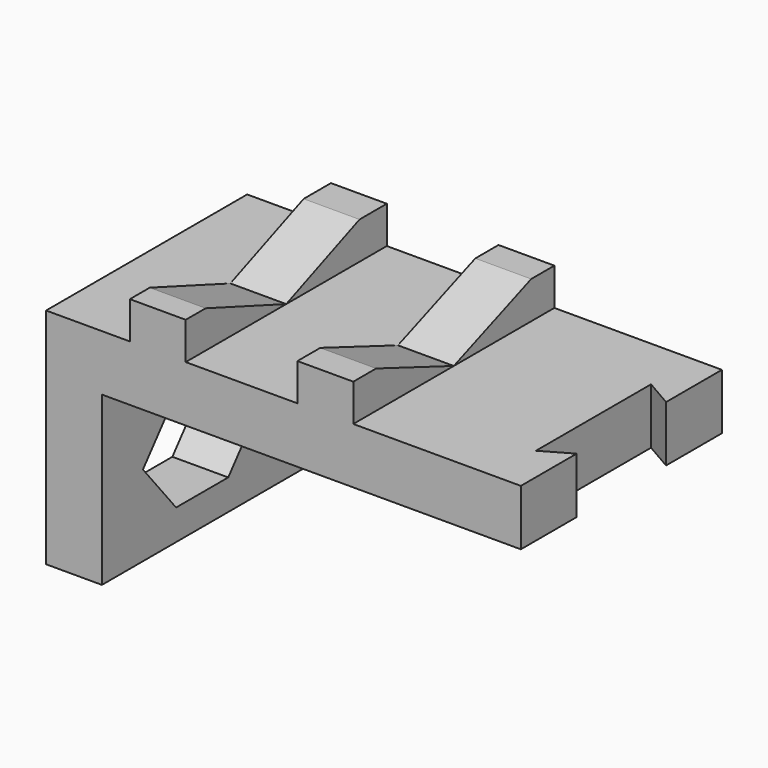
from build123d import *

# Parameters (mm, degrees)
F0_W      = 54
F0_H      = 56
F1_DEPTH  = 102
F2_W      = 90
F2_H      = 36
F3_DEPTH  = 59.1
F6_DEPTH  = 25
F7_W      = 18
F7_H      = 54
F8_DEPTH  = 8
F9_W      = 24
F9_H      = 54
F10_DEPTH = 8
F11_W     = 36
F11_H     = 54
F12_DEPTH = 8
F14_DEPTH = 12
F16_DEPTH = 25
F18_DEPTH = 42.4
F20_DEPTH = 25


with BuildPart() as f1:
    # F0 (on Right) → F1 (new body)
    with BuildSketch(Plane.YZ):
        with Locations((-4.050715, 4.935318)):
            Rectangle(F0_W, F0_H)
    extrude(amount=F1_DEPTH)

    # F2 (on face) → F3 (cut)
    with BuildSketch(Plane(origin=(0, 22.949285, 0), x_dir=(-1, 0, 0), z_dir=(0, 1, 0))):
        with Locations((-57, -5.064682)):
            Rectangle(F2_W, F2_H)
    extrude(amount=-F3_DEPTH, mode=Mode.SUBTRACT)

    # F5 (on face) → F6 (cut)
    with BuildSketch(Plane(origin=(0, 0, 0), x_dir=(0, -1, 0), z_dir=(-1, 0, 0))):
        Polygon((-2.864712, -16.520232), (11.135288, -16.520232), (20.040549, -5.717624), (11.135288, 5.084983), (-2.864712, 5.084983), (-11.769973, -5.717624), align=None)
    extrude(amount=-F6_DEPTH, mode=Mode.SUBTRACT)

    # F7 (on face) → F8 (cut)
    with BuildSketch(Plane.XY.offset(32.935318)):
        with Locations((9, -4.050715)):
            Rectangle(F7_W, F7_H)
    extrude(amount=-F8_DEPTH, mode=Mode.SUBTRACT)

    # F9 (on face) → F10 (cut)
    with BuildSketch(Plane.XY.offset(32.935318)):
        with Locations((42, -4.050715)):
            Rectangle(F9_W, F9_H)
    extrude(amount=-F10_DEPTH, mode=Mode.SUBTRACT)

    # F11 (on face) → F12 (cut)
    with BuildSketch(Plane.XY.offset(32.935318)):
        with Locations((84, -4.050715)):
            Rectangle(F11_W, F11_H)
    extrude(amount=-F12_DEPTH, mode=Mode.SUBTRACT)

    # F13 (on face) → F14 (cut)
    with BuildSketch(Plane.YZ.offset(66)):
        Polygon((16.72348, 32.935318), (-4.050715, 32.935318), (-4.050715, 24.935318), align=None)
    extrude(amount=-F14_DEPTH, mode=Mode.SUBTRACT)

    # F15 (on face) → F16 (cut)
    with BuildSketch(Plane.YZ.offset(66)):
        Polygon((-4.050715, 32.935318), (-24.917709, 32.935318), (-4.050715, 24.935318), align=None)
    extrude(amount=-F16_DEPTH, mode=Mode.SUBTRACT)

    # F17 (on face) → F18 (cut)
    with BuildSketch(Plane(origin=(0, 0, 0), x_dir=(0, -1, 0), z_dir=(-1, 0, 0))):
        Polygon((26.28649, 33.151057), (-16.84958, 33.434331), (4.061393, 24.936128), align=None)
    extrude(amount=-F18_DEPTH, mode=Mode.SUBTRACT)

    # F19 (on face) → F20 (cut)
    with BuildSketch(Plane.XY.offset(24.935318)):
        Polygon((96, -19.514816), (102, -16.050715), (102, 7.949285), (96, 11.413387), align=None)
    extrude(amount=-F20_DEPTH, mode=Mode.SUBTRACT)


solid = f1.part
